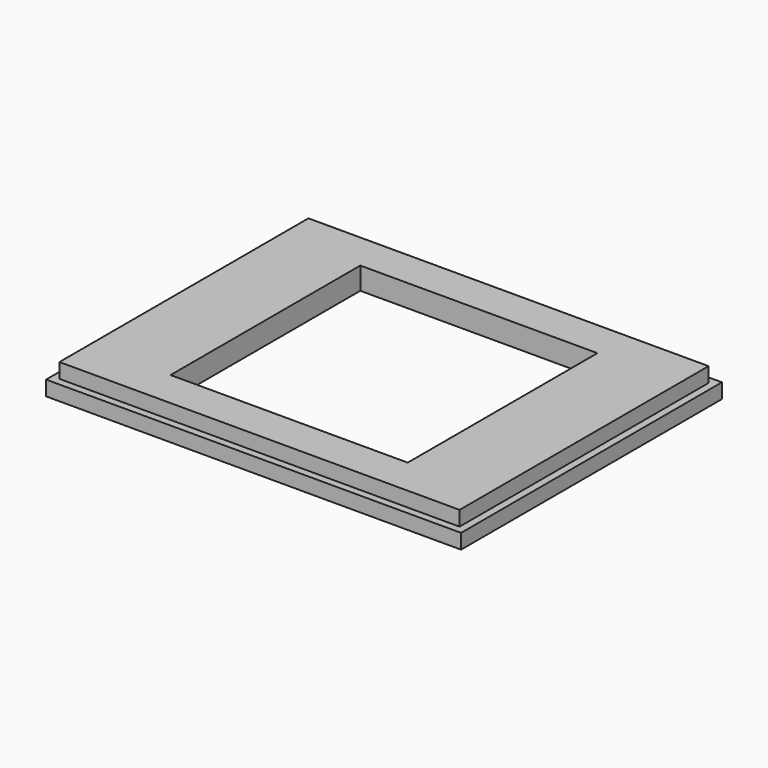
from build123d import *

# Parameters (mm, degrees)
F0_W     = 88.9
F0_H     = 69.85
F0_W_2   = 85.725
F0_H_2   = 66.675
F1_DEPTH = 3.175
F0_W_3   = 74.6125
F0_H_3   = 55.5625
F2_DEPTH = 6.35
F0_W_4   = 50.8
F0_H_4   = 50.8
F3_DEPTH = 6.35
F4_DEPTH = 1.5875


with BuildPart() as f1:
    # F0 (on Top) → F1 (new body)
    with BuildSketch(Plane.XY):
        Rectangle(F0_W, F0_H)
        Rectangle(F0_W_2, F0_H_2, mode=Mode.SUBTRACT)
    extrude(amount=F1_DEPTH)

    # F0 (on Top) → F2 (join)
    with BuildSketch(Plane.XY):
        Rectangle(F0_W_2, F0_H_2)
        Rectangle(F0_W_3, F0_H_3, mode=Mode.SUBTRACT)
    extrude(amount=F2_DEPTH)

    # F0 (on Top) → F3 (join)
    with BuildSketch(Plane.XY):
        Rectangle(F0_W_3, F0_H_3)
        Rectangle(F0_W_4, F0_H_4, mode=Mode.SUBTRACT)
    extrude(amount=F3_DEPTH)

    # F0 (on Top) → F4 (cut, symmetric)
    with BuildSketch(Plane.XY):
        Rectangle(F0_W_3, F0_H_3)
        Rectangle(F0_W_4, F0_H_4, mode=Mode.SUBTRACT)
    extrude(amount=F4_DEPTH, both=True, mode=Mode.SUBTRACT)


solid = f1.part
